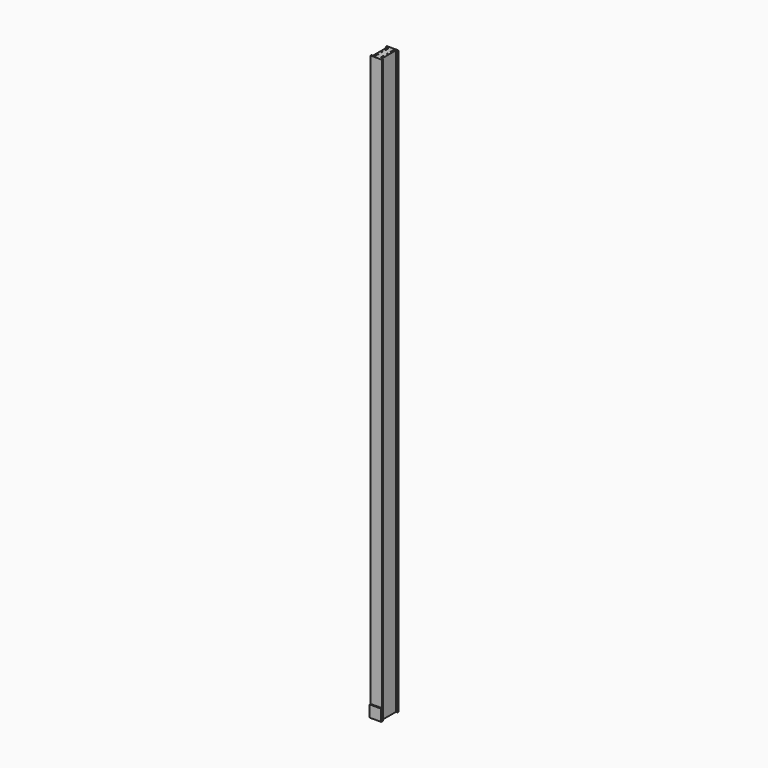
from build123d import *

# Parameters (mm, degrees)
F1_DEPTH = 500.5
F2_W     = 10
F2_H     = 10
F3_DEPTH = 1
F4_W     = 1
F4_H     = 1
F5_DEPTH = 505.5


with BuildPart() as f1:
    # F0 (on Top) → F1 (new body)
    with BuildSketch(Plane.XY):
        Polygon((5, 15.438399), (-5, 15.438399), (-5, 14.438399), (-3.67, 14.438399), (-3.67, -1.142601), (-5, -1.142601), (-5, -2.142601), (5, -2.142601), (5, -1.142601), (3.67, -1.142601), (3.67, 14.438399), (5, 14.438399), align=None)
    extrude(amount=F1_DEPTH)

    # F2 (on face) → F3 (join)
    with BuildSketch(Plane.XZ.offset(2.142601)):
        with Locations((0, 5)):
            Rectangle(F2_W, F2_H)
    extrude(amount=F3_DEPTH)

    # F4 (on face) → F5 (cut)
    with BuildSketch(Plane.XY.offset(500.5)):
        with Locations((-2.47, 12.938399)):
            Rectangle(F4_W, F4_H)
        with Locations((-2.47, 0.357399)):
            Rectangle(F4_W, F4_H)
        with Locations((2.47, 12.938399)):
            Rectangle(F4_W, F4_H)
        with Locations((2.47, 0.357399)):
            Rectangle(F4_W, F4_H)
        with Locations((-2.47, 6.678488)):
            Rectangle(F4_W, F4_H)
        with Locations((2.47, 6.678488)):
            Rectangle(F4_W, F4_H)
        with Locations((-2.47, 11.044263)):
            Rectangle(F4_W, F4_H)
        with Locations((2.47, 11.044263)):
            Rectangle(F4_W, F4_H)
        with Locations((-2.47, 2.251399)):
            Rectangle(F4_W, F4_H)
        with Locations((2.47, 2.251399)):
            Rectangle(F4_W, F4_H)
    extrude(amount=-F5_DEPTH, mode=Mode.SUBTRACT)


solid = f1.part
